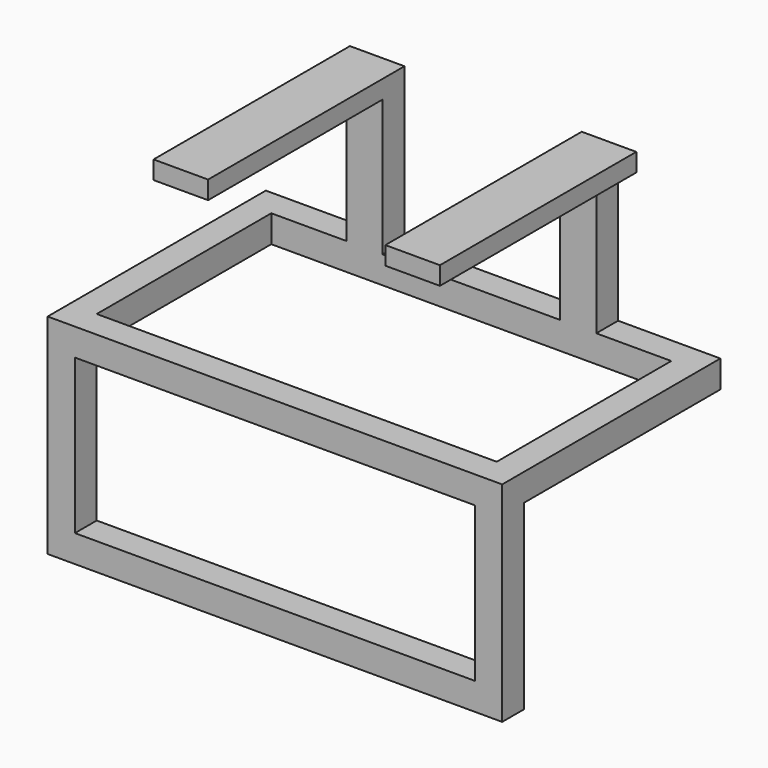
from build123d import *

# Parameters (mm, degrees)
F0_W     = 38.1
F0_H     = 38.1
F1_DEPTH = 38.1
F2_DEPTH = 304.8
F3_START = -304.8
F3_DEPTH = 38.1
F4_START = -304.8
F0_W_2   = 50.8
F0_H_2   = 190.5
F4_DEPTH = 38.1
F5_DEPTH = 342.9


with BuildPart() as f1:
    # F0 (on Front) → F1 (new body)
    with BuildSketch(Plane.XZ):
        Polygon((596.9, 38.1), (38.1, 38.1), (38.1, 254), (0, 254), (0, 0), (635, 0), (635, 254), (596.9, 254), align=None)
        with Locations((19.05, 273.05)):
            Rectangle(F0_W, F0_H)
        Polygon((38.1, 292.1), (38.1, 254), (596.9, 254), (596.9, 292.1), (492.125, 292.1), (441.325, 292.1), (193.675, 292.1), (142.875, 292.1), align=None)
        with Locations((615.95, 273.05)):
            Rectangle(F0_W, F0_H)
    extrude(amount=F1_DEPTH)

    # F0 (on Front) → F2 (join)
    with BuildSketch(Plane.XZ):
        with Locations((19.05, 273.05)):
            Rectangle(F0_W, F0_H)
        with Locations((615.95, 273.05)):
            Rectangle(F0_W, F0_H)
    extrude(amount=-F2_DEPTH)

    # F0 (on Front) → F3 (join)
    with BuildSketch(Plane.XZ.offset(F3_START)):
        Polygon((38.1, 292.1), (38.1, 254), (596.9, 254), (596.9, 292.1), (492.125, 292.1), (441.325, 292.1), (193.675, 292.1), (142.875, 292.1), align=None)
        with Locations((19.05, 273.05)):
            Rectangle(F0_W, F0_H)
        with Locations((615.95, 273.05)):
            Rectangle(F0_W, F0_H)
    extrude(amount=-F3_DEPTH)

    # F0 (on Front) → F4 (join)
    with BuildSketch(Plane.XZ.offset(F4_START)):
        with Locations((168.275, 387.35)):
            Rectangle(F0_W_2, F0_H_2)
        with Locations((466.725, 387.35)):
            Rectangle(F0_W_2, F0_H_2)
    extrude(amount=-F4_DEPTH)

    # F0 (on Front) → F5 (join)
    with BuildSketch(Plane.XZ):
        Polygon((117.475, 482.6), (142.875, 482.6), (193.675, 482.6), (193.675, 508), (117.475, 508), align=None)
        Polygon((441.325, 482.6), (492.125, 482.6), (517.525, 482.6), (517.525, 508), (441.325, 508), align=None)
    extrude(amount=-F5_DEPTH)


solid = f1.part
